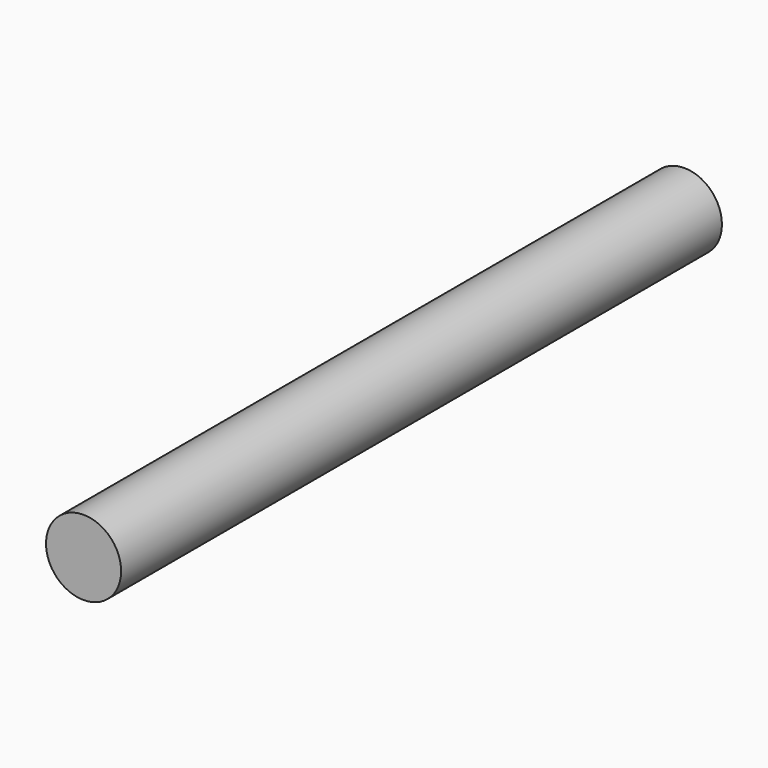
from build123d import *

# Parameters (mm, degrees)
F0_W = 2
F0_H = 40


with BuildPart() as f1:
    # F0 (on Top) → F1 (revolve)
    with BuildSketch(Plane.XY):
        Rectangle(F0_W, F0_H)
    revolve(axis=Axis((-1, 0, 0), (0, -1, 0)))


solid = f1.part
